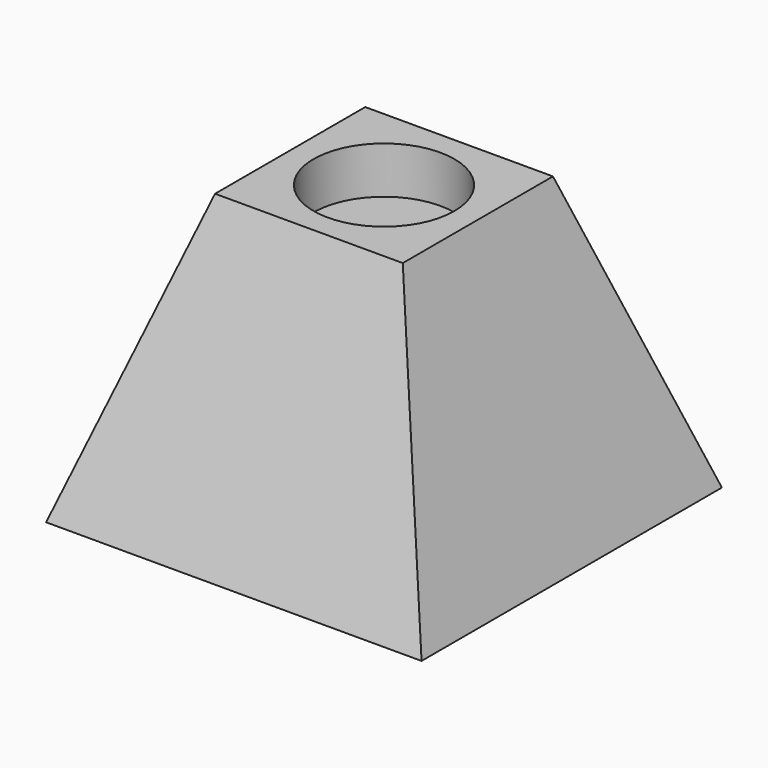
from build123d import *

# Parameters (mm, degrees)
F2_W     = 50.8
F2_H     = 50.8
F0_W     = 101.6
F0_H     = 101.6
F4_R     = 19.05
F5_DEPTH = 12.7


with BuildPart() as f3:
    # F2 (on offset) → F3 section 0
    with BuildSketch(Plane.XY.offset(76.2)):
        Rectangle(F2_W, F2_H)
    # F0 (on Top) → F3 section 1
    with BuildSketch(Plane.XY):
        Rectangle(F0_W, F0_H)
    loft()

    # F4 (on face) → F5 (cut)
    with BuildSketch(Plane.XY.offset(76.2)):
        Circle(F4_R)
    extrude(amount=-F5_DEPTH, mode=Mode.SUBTRACT)


solid = f3.part
